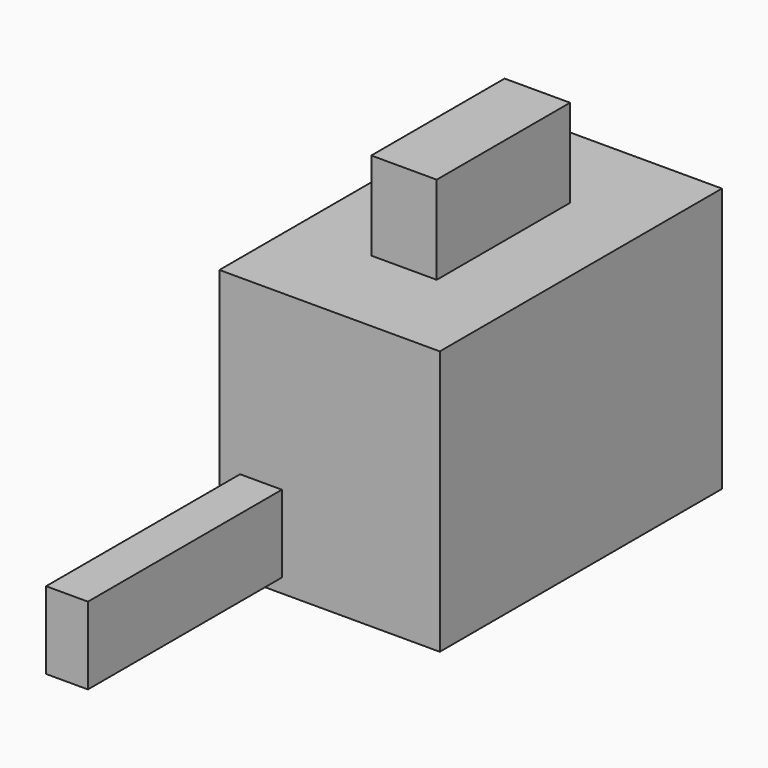
from build123d import *

# Parameters (mm, degrees)
F0_W     = 254
F0_H     = 406.4
F1_DEPTH = 304.8
F2_W     = 48.218414
F2_H     = 89.092545
F3_DEPTH = 279.4
F4_W     = 75.411438
F4_H     = 192.048072
F5_DEPTH = 101.6


with BuildPart() as f1:
    # F0 (on Top) → F1 (new body)
    with BuildSketch(Plane.XY):
        Rectangle(F0_W, F0_H)
    extrude(amount=F1_DEPTH)

    # F2 (on face) → F3 (join)
    with BuildSketch(Plane.XZ.offset(203.2)):
        with Locations((-79.117574, 60.734126)):
            Rectangle(F2_W, F2_H)
    extrude(amount=F3_DEPTH)

    # F4 (on face) → F5 (join)
    with BuildSketch(Plane.XY.offset(304.8)):
        Rectangle(F4_W, F4_H)
    extrude(amount=F5_DEPTH)


solid = f1.part
